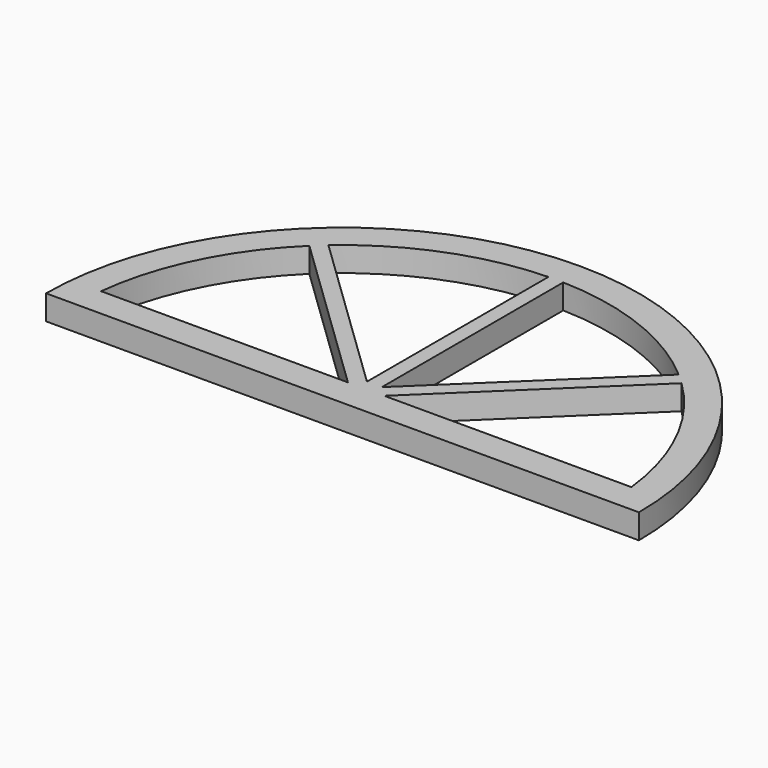
from build123d import *

# Parameters (mm, degrees)
F1_DEPTH = 25


with BuildPart() as f1:
    # F0 (on Top) → F1 (new body)
    with BuildSketch(Plane.XY):
        with BuildLine():
            Line((0, 0), (300, 0))
            ThreePointArc((300, 0), (0, 300), (-300, 0))
            Line((-300, 0), (0, 0))
        make_face()
        with BuildLine():
            Line((-18.500562, 29.977482), (-268.330674, 29.977482))
            ThreePointArc((-268.330674, 29.977482), (-242.522391, 118.671352), (-188.327777, 193.475188))
            Line((-188.327777, 193.475188), (-18.500562, 29.977482))
        make_face(mode=Mode.SUBTRACT)
        with BuildLine():
            ThreePointArc((188.251259, 193.549641), (242.498924, 118.719299), (268.330674, 29.977482))
            Line((268.330674, 29.977482), (18.303406, 29.977482))
            Line((18.303406, 29.977482), (188.251259, 193.549641))
        make_face(mode=Mode.SUBTRACT)
        with BuildLine():
            Line((-7.544666, 269.894568), (-7.544666, 40.359402))
            Line((-7.544666, 40.359402), (-177.213231, 203.704371))
            ThreePointArc((-177.213231, 203.704371), (-98.128261, 251.536964), (-7.544666, 269.894568))
        make_face(mode=Mode.SUBTRACT)
        with BuildLine():
            Line((177.213231, 203.704371), (7.499104, 40.357169))
            Line((7.499104, 40.357169), (7.479287, 269.896388))
            ThreePointArc((7.479287, 269.896388), (98.097794, 251.548848), (177.213231, 203.704371))
        make_face(mode=Mode.SUBTRACT)
    extrude(amount=F1_DEPTH)


solid = f1.part
